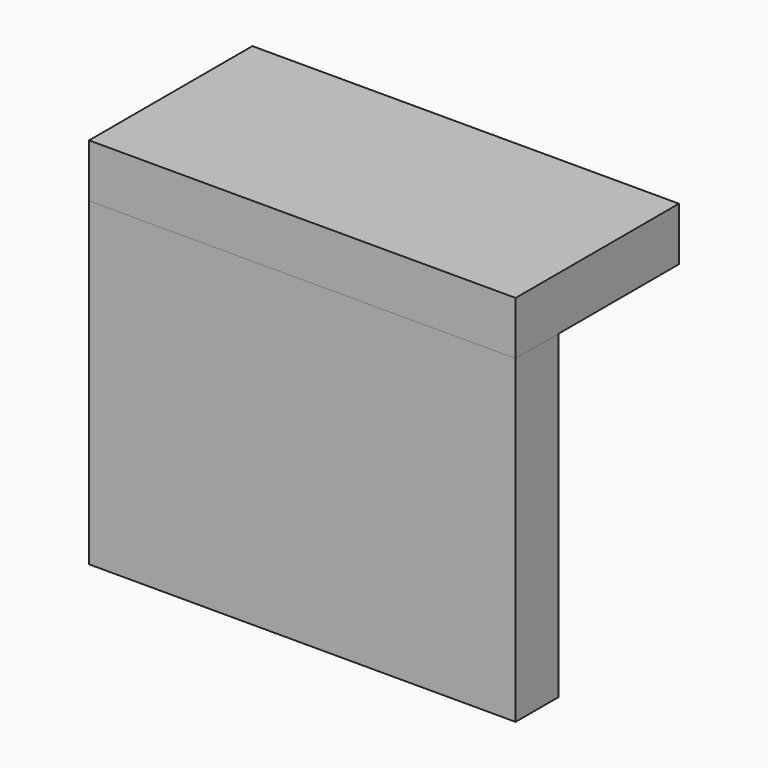
from build123d import *

# Parameters (mm, degrees)
F0_W          = 10
F0_H          = 60
F1_DEPTH      = 40
F1_DEPTH_BACK = 40
F2_W          = 38.290422
F2_H          = 10
F3_DEPTH      = 40
F3_DEPTH_BACK = 40


with BuildPart() as f1:
    # F0 (on Right) → F1 (new body, two sides)
    with BuildSketch(Plane.YZ) as f1_sk:
        with Locations((1.296799, 1.131736)):
            Rectangle(F0_W, F0_H)
    extrude(amount=F1_DEPTH)
    extrude(f1_sk.sketch, amount=-F1_DEPTH_BACK)


with BuildPart() as f3:
    # F2 (on Right) → F3 (new body, two sides)
    with BuildSketch(Plane.YZ) as f3_sk:
        with Locations((15.44201, 36.131736)):
            Rectangle(F2_W, F2_H)
    extrude(amount=F3_DEPTH)
    extrude(f3_sk.sketch, amount=-F3_DEPTH_BACK)


solid = Compound([f1.part, f3.part])
